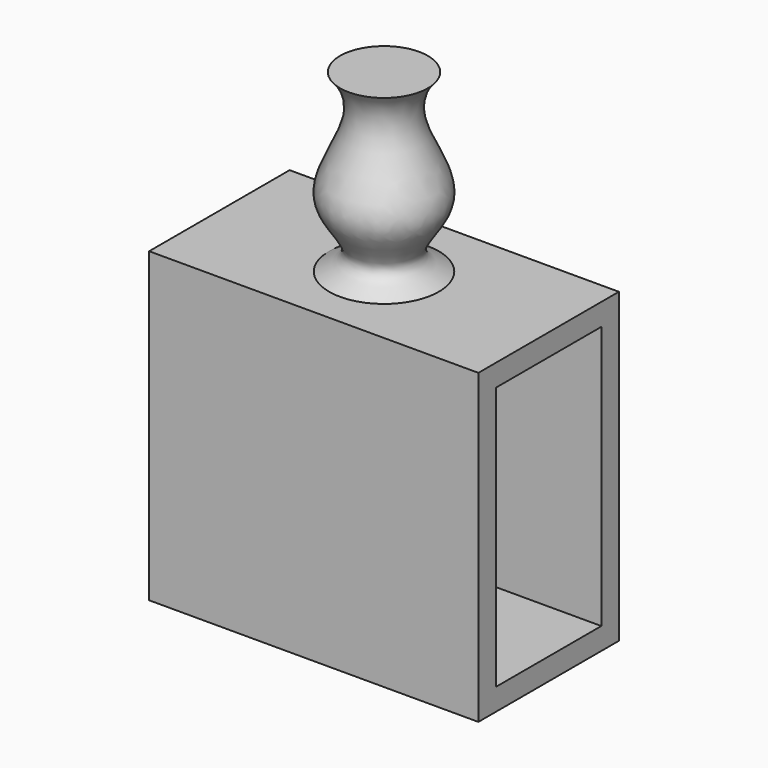
from build123d import *

# Parameters (mm, degrees)
F0_W     = 750
F0_H     = 400
F1_DEPTH = 700
F2_W     = 300
F2_H     = 600
F3_DEPTH = 700


with BuildPart() as f1:
    # F0 (on Top) → F1 (new body)
    with BuildSketch(Plane.XY):
        Rectangle(F0_W, F0_H)
    extrude(amount=F1_DEPTH)

    # F2 (on face) → F3 (cut, through all)
    with BuildSketch(Plane.YZ.offset(375)):
        with Locations((0, 350)):
            Rectangle(F2_W, F2_H)
    extrude(amount=-F3_DEPTH, mode=Mode.SUBTRACT)

    # F4 (on Front) → F5 (revolve)
    with BuildSketch(Plane.XZ):
        with BuildLine():
            Line((0, 1100), (-100, 1100))
            add(Edge.make_bspline(
                [(-100, 1100), (-74.9264732003, 1074.5007991791), (-52.4668861873, 995.3000976798), (-167.4321274896, 851.7977207352), (-48.4324080123, 747.3342060696), (-88.7868594089, 716.1834569746), (-125, 700)],
                knots=[0, 0, 0, 0, 0.2434136268, 0.5448860938, 0.7983932105, 1, 1, 1, 1], degree=3))
            Line((-125, 700), (0, 700))
            Line((0, 700), (0, 1100))
        make_face()
    revolve(axis=Axis((0, 0, 550), (0, 0, 1)))


solid = f1.part
